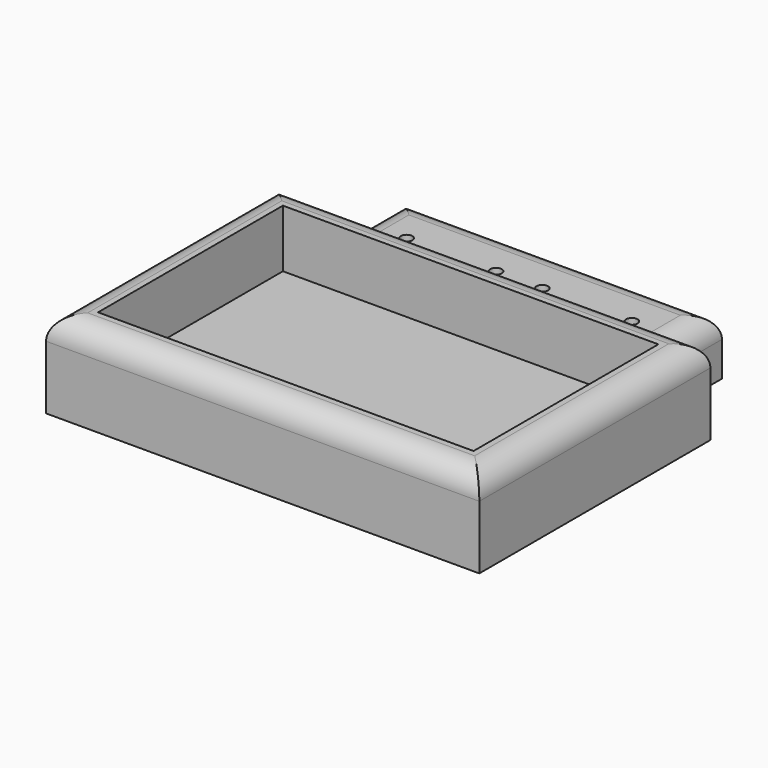
from build123d import *

# Parameters (mm, degrees)
F0_W     = 75
F0_H     = 50
F1_DEPTH = 5
F3_DEPTH = 10
F4_R     = 4
F5_R     = 1
F6_DEPTH = 7
F7_W     = 65
F7_H     = 40
F8_DEPTH = 10


with BuildPart() as f1:
    # F0 (on Top) → F1 (new body)
    with BuildSketch(Plane.XY):
        Rectangle(F0_W, F0_H)
    extrude(amount=F1_DEPTH)

    # F2 (on face) → F3 (join)
    with BuildSketch(Plane(origin=(0, 0, 0), x_dir=(1, 0, 0), z_dir=(0, 0, -1))):
        Polygon((37.5, 25), (-37.5, 25), (-37.5, -25), (-27.5, -25), (-27.5, -40), (27.5, -40), (27.5, -25), (37.5, -25), align=None)
    extrude(amount=F3_DEPTH)

    # F4
    f4_edges = [f1.edges().sort_by_distance(p)[0] for p in [
        (0, -25, 5),
        (37.5, 0, 5),
        (0, 25, 5),
        (-37.5, 0, 5),
        (27.5, 32.5, 0),
        (0, 40, 0),
        (-27.5, 32.5, 0),
    ]]
    fillet(f4_edges, radius=F4_R)

    # F5 (on face) → F6 (cut)
    with BuildSketch(Plane.XY):
        with Locations((-19.5, 30.5)):
            Circle(F5_R)
        with Locations((-4, 30.5)):
            Circle(F5_R)
        with Locations((4, 30.5)):
            Circle(F5_R)
        with Locations((19.5, 30.5)):
            Circle(F5_R)
    extrude(amount=-F6_DEPTH, mode=Mode.SUBTRACT)

    # F7 (on face) → F8 (cut)
    with BuildSketch(Plane.XY.offset(5)):
        Rectangle(F7_W, F7_H)
    extrude(amount=-F8_DEPTH, mode=Mode.SUBTRACT)


solid = f1.part
